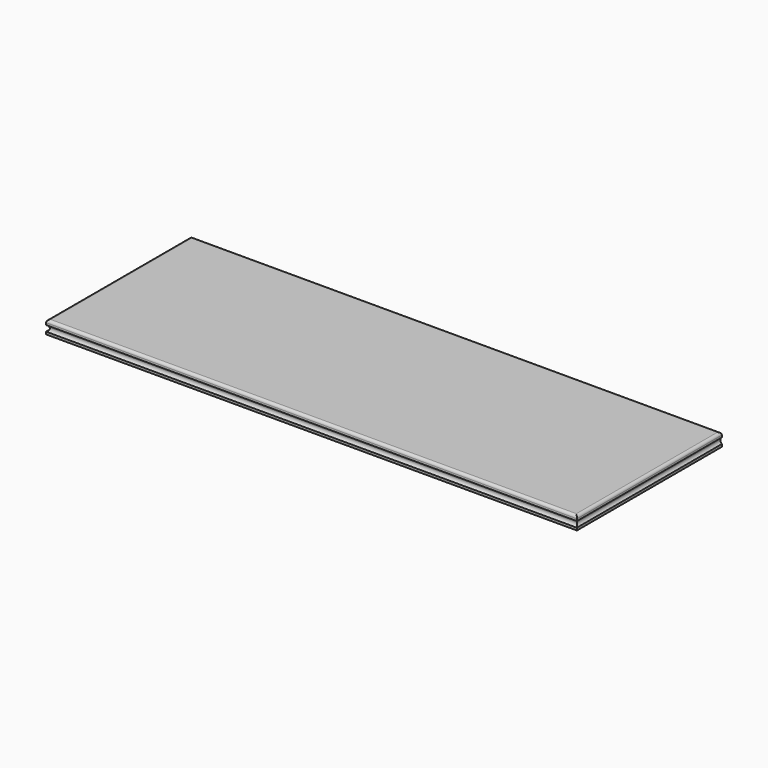
from build123d import *

# Parameters (mm, degrees)
F0_W     = 1041.4
F0_H     = 355.6
F1_DEPTH = 25.4
F2_R     = 5.08
F4_DEPTH = 355.601
F6_DEPTH = 1041.401
F8_DEPTH = 355.601


with BuildPart() as f1:
    # F0 (on Top) → F1 (new body)
    with BuildSketch(Plane.XY):
        with Locations((520.7, 177.8)):
            Rectangle(F0_W, F0_H)
    extrude(amount=-F1_DEPTH)

    # F2
    f2_edges = [f1.edges().sort_by_distance(p)[0] for p in [
        (520.7, 0, 0),
        (1041.4, 177.8, 0),
        (520.7, 355.6, 0),
        (0, 177.8, 0),
    ]]
    fillet(f2_edges, radius=F2_R)

    # F3 (on face) → F4 (cut, through all)
    with BuildSketch(Plane.XZ):
        with BuildLine():
            Line((0, -9.080117), (0, -20.479154))
            ThreePointArc((0, -20.479154), (4.683372, -14.779635), (0, -9.080117))
        make_face()
    extrude(amount=-F4_DEPTH, mode=Mode.SUBTRACT)

    # F5 (on Right) → F6 (cut, through all)
    with BuildSketch(Plane.YZ):
        with BuildLine():
            Line((0, -9.203359), (0, -20.589933))
            ThreePointArc((0, -20.589933), (3.376242, -14.896646), (0, -9.203359))
        make_face()
    extrude(amount=F6_DEPTH, mode=Mode.SUBTRACT)

    # F7 (on face) → F8 (cut, through all)
    with BuildSketch(Plane.XZ):
        with BuildLine():
            Line((1041.4, -20.478019), (1041.4, -9.203359))
            ThreePointArc((1041.4, -9.203359), (1038.527252, -14.840689), (1041.4, -20.478019))
        make_face()
    extrude(amount=-F8_DEPTH, mode=Mode.SUBTRACT)


solid = f1.part
